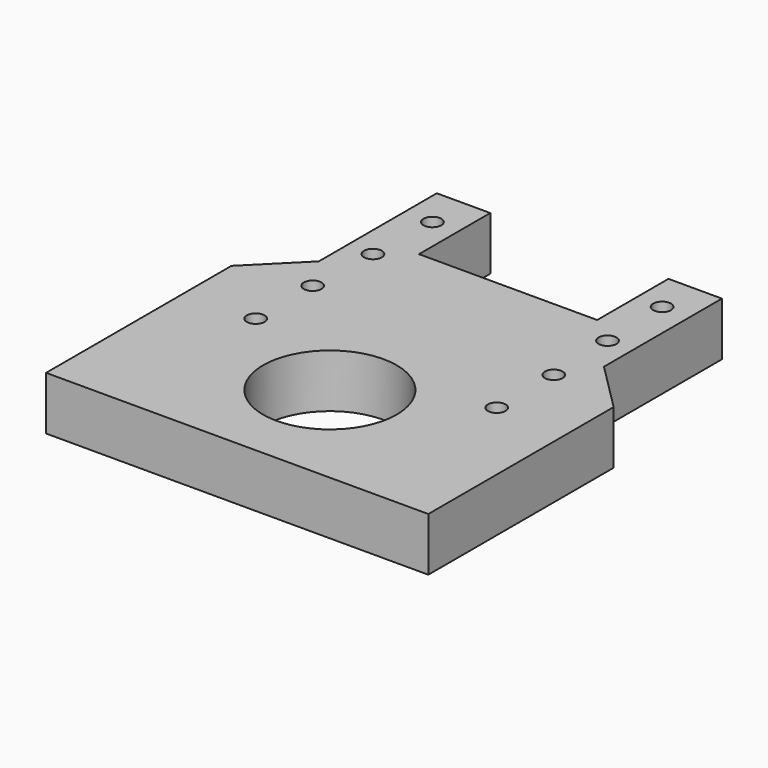
from build123d import *

# Parameters (mm, degrees)
F0_R     = 1
F0_R_2   = 7.5
F1_DEPTH = 6


with BuildPart() as f1:
    # F0 (on Top) → F1 (new body)
    with BuildSketch(Plane.XY):
        Polygon((-10, 36.175396), (-16, 36.175396), (-16, 19.625396), (-21.45, 14.175396), (-21.45, -11.824604), (21.45, -11.824604), (21.45, 14.175396), (16, 19.625396), (16, 36.175396), (10, 36.175396), (10, 26.175396), (-10, 26.175396), align=None)
        with Locations((-13.526969, 7.675396)):
            Circle(F0_R, mode=Mode.SUBTRACT)
        with Locations((0, 1.175396)):
            Circle(F0_R_2, mode=Mode.SUBTRACT)
        with Locations((13.526969, 7.675396)):
            Circle(F0_R, mode=Mode.SUBTRACT)
        with Locations((-13.526969, 15.675396)):
            Circle(F0_R, mode=Mode.SUBTRACT)
        with Locations((-13.163304, 23.675396)):
            Circle(F0_R, mode=Mode.SUBTRACT)
        with Locations((-12.886655, 31.675396)):
            Circle(F0_R, mode=Mode.SUBTRACT)
        with Locations((13.526969, 15.675396)):
            Circle(F0_R, mode=Mode.SUBTRACT)
        with Locations((13.163304, 23.675396)):
            Circle(F0_R, mode=Mode.SUBTRACT)
        with Locations((12.886655, 31.675396)):
            Circle(F0_R, mode=Mode.SUBTRACT)
    extrude(amount=F1_DEPTH)


solid = f1.part
